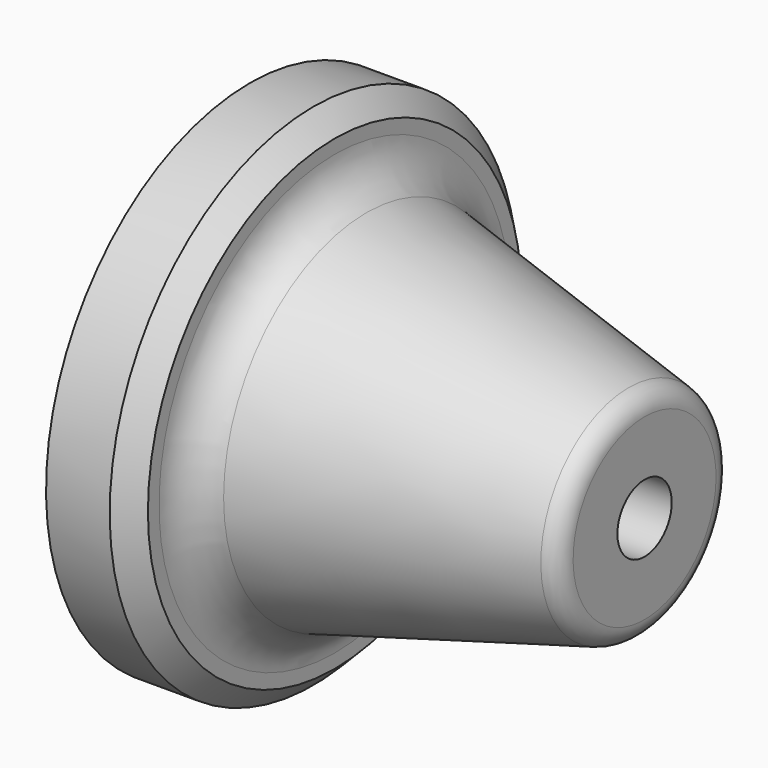
from build123d import *

# Parameters (mm, degrees)
F2_R = 5
F3_R = 10
F4_R = 5


with BuildPart() as f1:
    # F0 (on Front) → F1 (revolve)
    with BuildSketch(Plane.XZ):
        Polygon((55, 8), (93, 8), (93, 24.90327), (20, 44), (20, 55), (15, 60), (0, 60), (0, 28), (7, 28), (15, 14), (55, 14), align=None)
    revolve(axis=Axis((54.39201, 0, 0), (1, 0, 0)))

    # F2
    f2_edges = [f1.edges().sort_by_distance(p)[0] for p in [
        (93, 0, -24.90327),
    ]]
    fillet(f2_edges, radius=F2_R)

    # F3
    f3_edges = [f1.edges().sort_by_distance(p)[0] for p in [
        (20, 0, -44),
    ]]
    fillet(f3_edges, radius=F3_R)

    # F4
    f4_edges = [f1.edges().sort_by_distance(p)[0] for p in [
        (55, 0, -14),
    ]]
    fillet(f4_edges, radius=F4_R)


solid = f1.part
